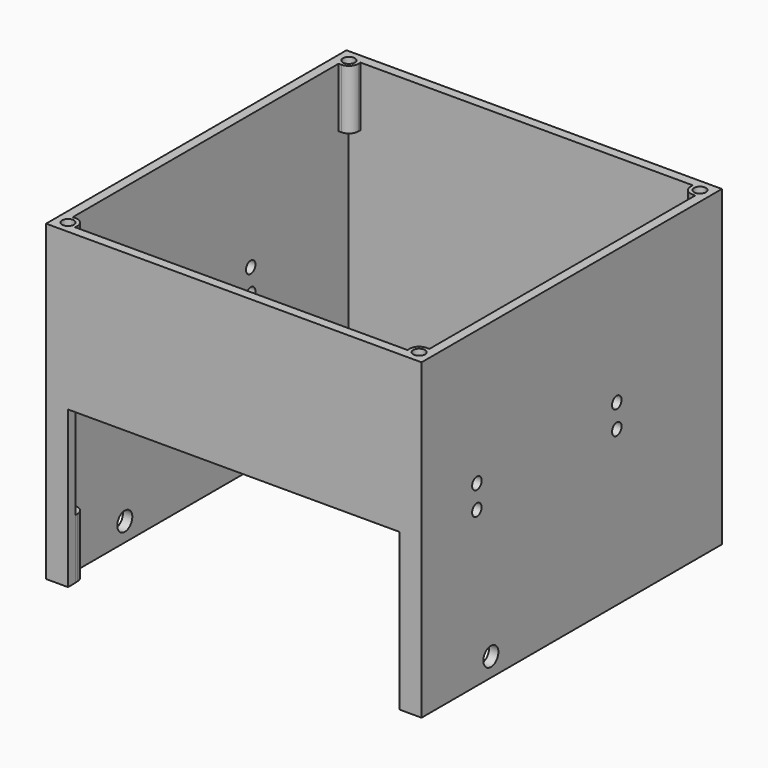
from build123d import *

# Parameters (mm, degrees)
SKETCH007_W     = 120
SKETCH007_H     = 120
PAD002_DEPTH    = 100
POCKET005_DEPTH = 100.001
SKETCH009_R     = 1.9
POCKET006_DEPTH = 16
SKETCH010_W     = 3.9
SKETCH010_H     = 62
POCKET007_DEPTH = 114
SKETCH011_R     = 1.9
POCKET008_DEPTH = 16
SKETCH012_R     = 1.9
POCKET009_DEPTH = 120.001
SKETCH013_W     = 106
SKETCH013_H     = 50
POCKET010_DEPTH = 3
SKETCH014_R     = 3
POCKET011_DEPTH = 120.001
SKETCH015_W     = 10
SKETCH015_H     = 10
POCKET012_DEPTH = 3


with BuildPart() as part:
    # Sketch007 → Pad002 (new body)
    with BuildSketch(Plane.XY):
        with Locations((75, 75)):
            Rectangle(SKETCH007_W, SKETCH007_H)
    extrude(amount=PAD002_DEPTH)

    # Sketch008 (on Face5 of Pad002) → Pocket005 (cut, through all)
    with BuildSketch(Plane(origin=(0, 0, 0), x_dir=(1, 0, 0), z_dir=(0, 0, -1))):
        with BuildLine():
            Line((21.9, -18), (128.1, -18))
            Line((128.1, -18), (128.1, -18.9))
            ThreePointArc((128.1, -18.9), (128.97868, -21.02132), (131.1, -21.9))
            Line((132, -21.9), (131.1, -21.9))
            Line((132, -21.9), (132, -128.1))
            Line((132, -128.1), (131.1, -128.1))
            ThreePointArc((131.1, -128.1), (128.97868, -128.97868), (128.1, -131.1))
            Line((128.1, -132), (128.1, -131.1))
            Line((21.9, -132), (128.1, -132))
            Line((21.9, -132), (21.9, -131.1))
            ThreePointArc((21.9, -131.1), (21.02132, -128.97868), (18.9, -128.1))
            Line((18, -128.1), (18.9, -128.1))
            Line((18, -21.9), (18, -128.1))
            Line((18, -21.9), (18.9, -21.9))
            ThreePointArc((18.9, -21.9), (21.02132, -21.02132), (21.9, -18.9))
            Line((21.9, -18), (21.9, -18.9))
        make_face()
    extrude(amount=-POCKET005_DEPTH, mode=Mode.SUBTRACT)

    # Sketch009 (on Face5 of Pocket005) → Pocket006 (cut)
    with BuildSketch(Plane.XY.offset(100)):
        with Locations((18.9, 18.9)):
            Circle(SKETCH009_R)
        with Locations((131.1, 18.9)):
            Circle(SKETCH009_R)
        with Locations((131.1, 131.1)):
            Circle(SKETCH009_R)
        with Locations((18.9, 131.1)):
            Circle(SKETCH009_R)
    extrude(amount=-POCKET006_DEPTH, mode=Mode.SUBTRACT)

    # Sketch010 (on Face7 of Pocket006) → Pocket007 (cut)
    with BuildSketch(Plane.YZ.offset(18)):
        with Locations((19.95, 50)):
            Rectangle(SKETCH010_W, SKETCH010_H)
        with Locations((130.05, 50)):
            Rectangle(SKETCH010_W, SKETCH010_H)
    extrude(amount=POCKET007_DEPTH, mode=Mode.SUBTRACT)

    # Sketch011 (on Face4 of Pocket007) → Pocket008 (cut)
    with BuildSketch(Plane(origin=(0, 0, 0), x_dir=(1, 0, 0), z_dir=(0, 0, -1))):
        with Locations((18.9, -131.1)):
            Circle(SKETCH011_R)
        with Locations((18.9, -18.9)):
            Circle(SKETCH011_R)
        with Locations((131.1, -18.9)):
            Circle(SKETCH011_R)
        with Locations((131.1, -131.1)):
            Circle(SKETCH011_R)
    extrude(amount=-POCKET008_DEPTH, mode=Mode.SUBTRACT)

    # Sketch012 (on Face2 of Pocket008) → Pocket009 (cut, through all)
    with BuildSketch(Plane(origin=(15, 0, 0), x_dir=(0, -1, 0), z_dir=(-1, 0, 0))):
        with Locations((-37.1, 57)):
            Circle(SKETCH012_R)
        with Locations((-37.1, 49.5)):
            Circle(SKETCH012_R)
        with Locations((-93, 57)):
            Circle(SKETCH012_R)
        with Locations((-93, 49.5)):
            Circle(SKETCH012_R)
    extrude(amount=-POCKET009_DEPTH, mode=Mode.SUBTRACT)

    # Sketch013 (on Face6 of Pocket009) → Pocket010 (cut)
    with BuildSketch(Plane.XZ.offset(-15)):
        with Locations((75, 25)):
            Rectangle(SKETCH013_W, SKETCH013_H)
    extrude(amount=-POCKET010_DEPTH, mode=Mode.SUBTRACT)

    # Sketch014 (on Face2 of Pocket010) → Pocket011 (cut, through all)
    with BuildSketch(Plane(origin=(15, 0, 0), x_dir=(0, -1, 0), z_dir=(-1, 0, 0))):
        with Locations((-42.7, 6)):
            Circle(SKETCH014_R)
    extrude(amount=-POCKET011_DEPTH, mode=Mode.SUBTRACT)

    # Sketch015 (on Face1 of Pocket011) → Pocket012 (cut)
    with BuildSketch(Plane(origin=(0, 135, 0), x_dir=(-1, 0, 0), z_dir=(0, 1, 0))):
        with Locations((-123, 15)):
            Rectangle(SKETCH015_W, SKETCH015_H)
    extrude(amount=-POCKET012_DEPTH, mode=Mode.SUBTRACT)


with BuildPart() as part_1:
    # Body001 placement: moved
    add(part.part.moved(Location((0, 0, -44))))


solid = part_1.part
